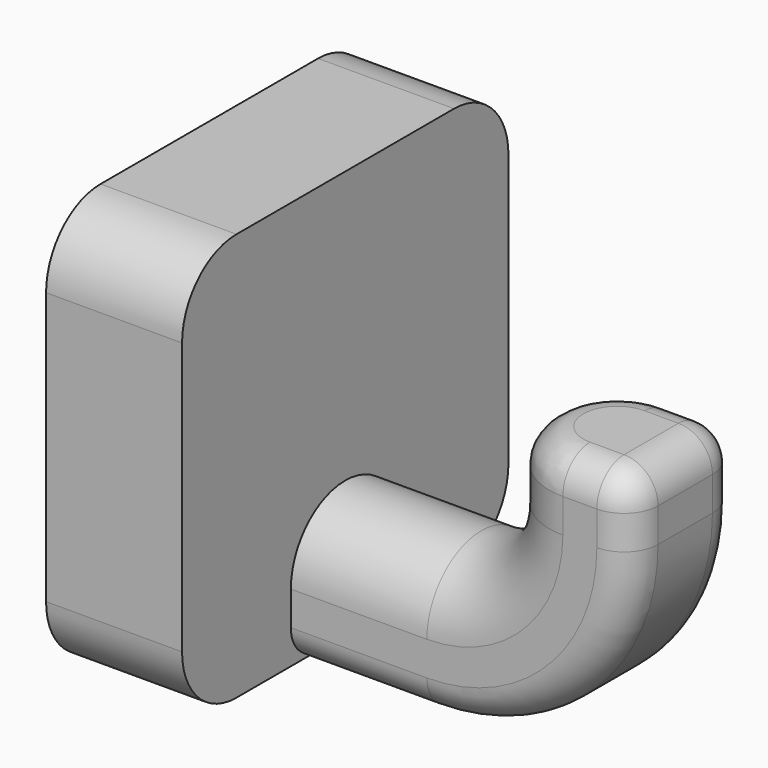
from build123d import *

# Parameters (mm, degrees)
F3_R          = 0.5
F4_W          = 2
F4_H          = 6
F5_DEPTH      = 5
F5_DEPTH_BACK = 1
F6_R          = 1


with BuildPart() as f2:
    # F2: sweep along a path in F0
    with BuildLine(Plane.XZ) as f2_path:
        Line((0, 0), (2, 0))
        ThreePointArc((2, 0), (3.4142135624, 0.5857864376), (4, 2))
        Line((4, 2), (4, 3))
    # F1 (on Right) → F2 (sweep)
    with BuildSketch(Plane.YZ):
        with BuildLine():
            Line((1, -1), (1, 0))
            ThreePointArc((1, 0), (0, 1), (-1, 0))
            Line((-1, 0), (-1, -1))
            Line((-1, -1), (1, -1))
        make_face()
    sweep(path=f2_path.line)

    # F3
    f3_edges = [f2.edges().sort_by_distance(p)[0] for p in [
        (5, 0, 3),
        (3, 0, 3),
        (4.12132, -1, -0.12132),
        (4.12132, 1, -0.12132),
    ]]
    fillet(f3_edges, radius=F3_R)

    # F4 (on Top) → F5 (join, two sides)
    with BuildSketch(Plane.XY) as f5_sk:
        with Locations((-1, 0)):
            Rectangle(F4_W, F4_H)
    extrude(amount=F5_DEPTH)
    extrude(f5_sk.sketch, amount=-F5_DEPTH_BACK)

    # F6
    f6_edges = [f2.edges().sort_by_distance(p)[0] for p in [
        (-1, -3, -1),
        (-1, -3, 5),
        (-1, 3, 5),
        (-1, 3, -1),
    ]]
    fillet(f6_edges, radius=F6_R)


solid = f2.part
